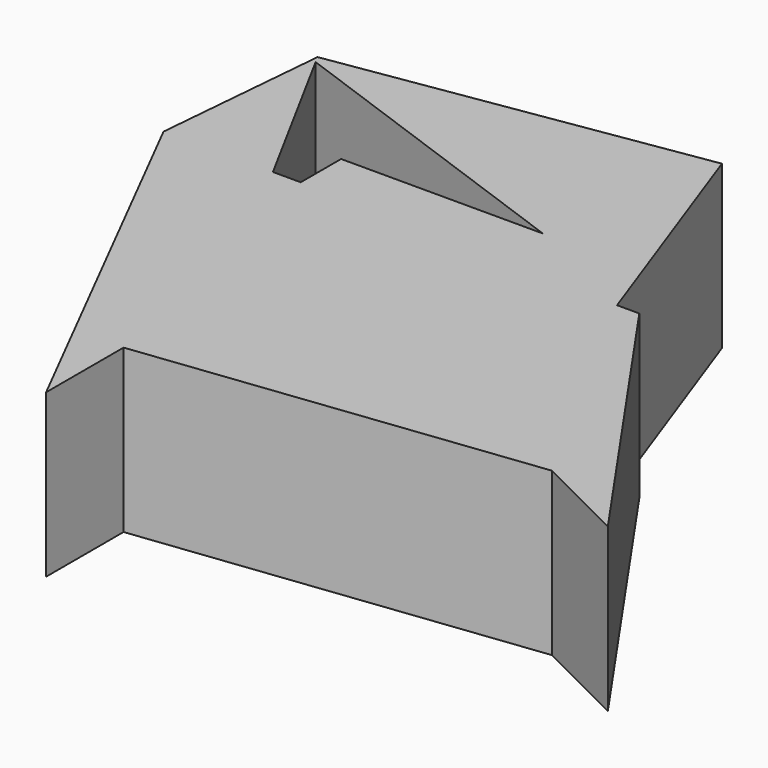
from build123d import *

# Parameters (mm, degrees)
F1_DEPTH = 25


with BuildPart() as f1:
    # F0 (on Top) → F1 (new body)
    with BuildSketch(Plane.XY):
        Polygon((-40.994822979, 55.9171624482), (-43.3357991278, 29.2011853307), (-26.4946625571, 29.2011853307), (-40.3697645688, 54.765516832), align=None)
        Polygon((-26.4946625571, 29.2011853307), (-43.3357991278, 29.2011853307), (-11.9600594044, -32.6183438301), (-11.9600594044, -17.7071020007), (-15.0134380226, 8.0474792324), align=None)
        Polygon((-22.2115386277, 29.2011853307), (-26.4946625571, 29.2011853307), (-15.0134380226, 8.0474792324), (31.386833638, 17.0857999474), (27.4783183213, 27.9585812241), (8.8535510004, 27.9585812241), (8.8535510004, 36.9674563408), (-22.2115386277, 36.9674563408), align=None)
        Polygon((14.3010364845, 64.6153911948), (-40.994822979, 55.9171624482), (-40.3697645688, 54.765516832), (8.8535510004, 36.9674563408), align=None)
        Polygon((31.386833638, 17.0857999474), (-15.0134380226, 8.0474792324), (-11.9600594044, -17.7071020007), (48.3062155545, -10.56213025), align=None)
        Polygon((27.4783183213, 27.9585812241), (14.3010364845, 64.6153911948), (8.8535510004, 36.9674563408), (8.8535510004, 27.9585812241), align=None)
        Polygon((27.4783183213, 27.9585812241), (31.386833638, 17.0857999474), (48.3062155545, -10.56213025), (62.5961571932, -17.7071020007), (30.9097617865, 27.9585812241), align=None)
    extrude(amount=F1_DEPTH)


solid = f1.part
